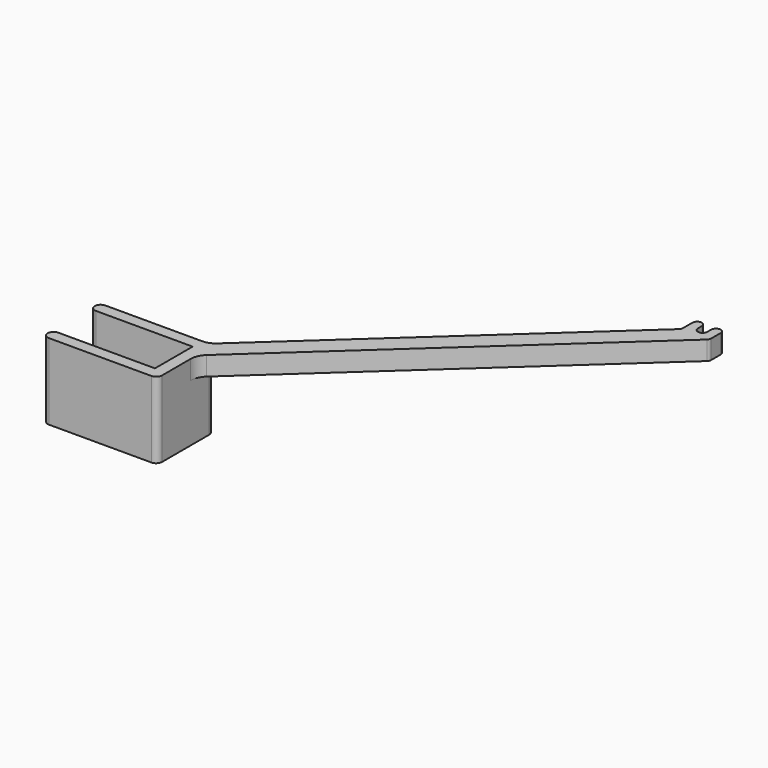
from build123d import *

# Parameters (mm, degrees)
EXTRUDE001_DEPTH = 32.36
EXTRUDE_DEPTH    = 8.06


with BuildPart() as extrude001:
    # Sketch001 → Extrude001 (new body)
    with BuildSketch(Plane.XY):
        with BuildLine():
            Line((-46.04, 25), (-5, 25))
            Line((-5, 25), (-5, 5))
            Line((-5, 5), (-46.04, 5))
            ThreePointArc((-46.04, 5), (-48.54, 2.5), (-46.04, 0))
            Line((-46.04, 0), (-2.5, 0))
            ThreePointArc((-2.5, 0), (-0.732233, 0.732233), (0, 2.5))
            Line((0, 27.5), (0, 2.5))
            ThreePointArc((0, 27.5), (-0.732233, 29.267767), (-2.5, 30))
            Line((-46.04, 30), (-2.5, 30))
            ThreePointArc((-46.04, 30), (-48.54, 27.5), (-46.04, 25))
        make_face()
    extrude(amount=-EXTRUDE001_DEPTH)


with BuildPart() as fusion:
    # Sketch → Extrude (new body)
    with BuildSketch(Plane.XY):
        with BuildLine():
            Line((-46.04, 25), (-5, 25))
            Line((-5, 25), (-5, 5))
            Line((-5, 5), (-46.04, 5))
            ThreePointArc((-46.04, 5), (-48.54, 2.5), (-46.04, 0))
            Line((-46.04, 0), (-2.5, 0))
            ThreePointArc((-2.5, 0), (-0.732233, 0.732233), (0, 2.5))
            Line((0, 17.715099), (0, 2.5))
            ThreePointArc((2.400936, 23.171642), (0.626774, 20.695802), (0, 17.715099))
            Line((2.400936, 23.171642), (125, 135.512986))
            ThreePointArc((125, 135.512986), (125.478432, 136.180638), (125.647452, 136.984434))
            Line((125.647452, 136.984434), (125.647452, 141.966204))
            ThreePointArc((125.647452, 141.966204), (123.651667, 143.96199), (121.655881, 141.966204))
            Line((121.655881, 141.966204), (121.655881, 139.903136))
            ThreePointArc((117.664309, 139.903136), (119.660095, 137.90735), (121.655881, 139.903136))
            Line((117.664309, 139.903136), (117.664309, 141.966204))
            ThreePointArc((117.664309, 141.966204), (115.668524, 143.96199), (113.672738, 141.966204))
            Line((113.672738, 141.966204), (113.672738, 136.984434))
            ThreePointArc((113.025285, 135.512986), (113.503718, 136.180638), (113.672738, 136.984434))
            Line((0, 31.944394), (113.025285, 135.512986))
            ThreePointArc((-5, 30), (-2.317619, 30.503205), (0, 31.944394))
            Line((-46.04, 30), (-5, 30))
            ThreePointArc((-46.04, 30), (-48.54, 27.5), (-46.04, 25))
        make_face()
    extrude(amount=-EXTRUDE_DEPTH)

    # Fusion: union Extrude001
    add(extrude001.part)


solid = fusion.part
